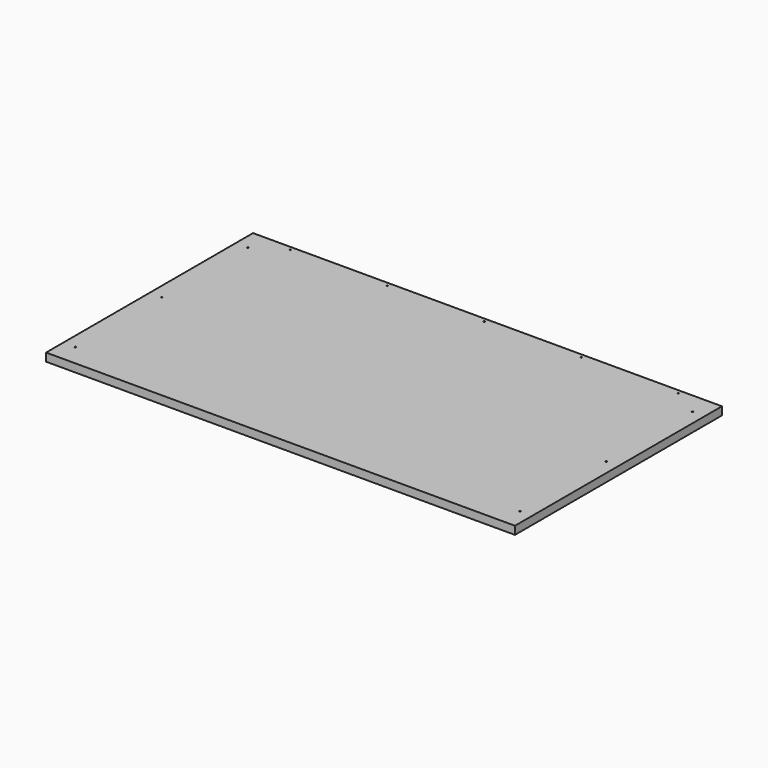
from build123d import *

# Parameters (mm, degrees)
F0_W     = 1104.9
F0_H     = 609.6
F1_DEPTH = 19.05
F2_R     = 1.5875
F3_DEPTH = 19.051
F4_R     = 1.5875
F5_DEPTH = 19.051


with BuildPart() as f1:
    # F0 (on Top) → F1 (new body)
    with BuildSketch(Plane.XY):
        with Locations((552.45, -304.8)):
            Rectangle(F0_W, F0_H)
    extrude(amount=-F1_DEPTH)

    # F2 (on Top) → F3 (cut, through all)
    with BuildSketch(Plane.XY):
        with Locations((95.25, -9.525)):
            Circle(F2_R)
        with Locations((323.85, -9.525)):
            Circle(F2_R)
        with Locations((552.45, -9.525)):
            Circle(F2_R)
        with Locations((781.05, -9.525)):
            Circle(F2_R)
        with Locations((1009.65, -9.525)):
            Circle(F2_R)
    extrude(amount=-F3_DEPTH, mode=Mode.SUBTRACT)

    # F4 (on Top) → F5 (cut, through all)
    with BuildSketch(Plane.XY):
        with Locations((28.575, -50.8)):
            Circle(F4_R)
        with Locations((28.575, -304.8)):
            Circle(F4_R)
        with Locations((28.575, -558.8)):
            Circle(F4_R)
        with Locations((1076.325, -50.8)):
            Circle(F4_R)
        with Locations((1076.325, -304.8)):
            Circle(F4_R)
        with Locations((1076.325, -558.8)):
            Circle(F4_R)
    extrude(amount=-F5_DEPTH, mode=Mode.SUBTRACT)


solid = f1.part
